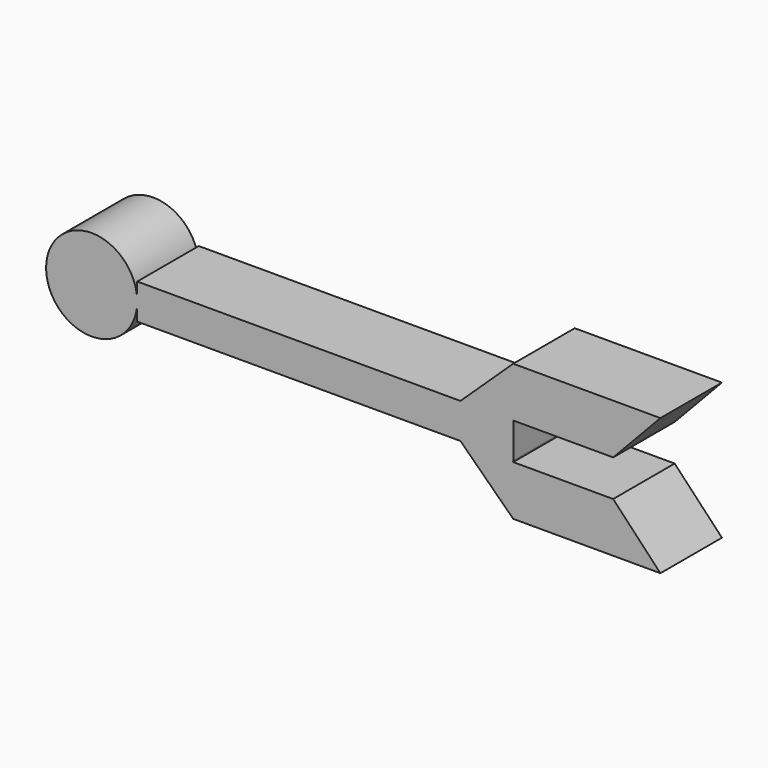
from build123d import *

# Parameters (mm, degrees)
F0_W     = 8.5292397036
F0_H     = 5.8270652971
F0_W_2   = 16.51
F0_H_2   = 8.255
F0_W_3   = 0.0115435171
F0_H_3   = 0.0098554845
F1_DEPTH = 12.7


with BuildPart() as f1:
    # F0 (on Front) → F1 (new body)
    with BuildSketch(Plane.XZ):
        with BuildLine():
            ThreePointArc((-30.9562882377, -0.2427943825), (-30.9533520359, -0.1214129725), (-30.9523732171, 0))
            ThreePointArc((-30.9523732171, 0), (-30.9533520359, 0.1214129725), (-30.9562882377, 0.2427943825))
            Line((-30.9562882377, 0.2427943825), (-30.9562882377, -0.2427943825))
        make_face()
        with BuildLine():
            ThreePointArc((-30.9562882377, 0.2427943825), (-30.9533520359, 0.1214129725), (-30.9523732171, 0))
            ThreePointArc((-30.9523732171, 0), (-30.9533520359, -0.1214129725), (-30.9562882377, -0.2427943825))
            Line((-30.9562882377, -0.2427943825), (-30.9562882377, -2.9135326485))
            Line((-30.9562882377, -2.9135326485), (22.4270485342, -2.9135326485))
            Line((22.4270485342, -2.9135326485), (22.4270485342, 2.9135326485))
            Line((22.4270485342, 2.9135326485), (-30.9562882377, 2.9135326485))
            Line((-30.9562882377, 2.9135326485), (-30.9562882377, 0.2427943825))
        make_face()
        with BuildLine():
            Line((-30.9562882377, -0.2427943825), (-30.9562882377, 0.2427943825))
            ThreePointArc((-30.9562882377, 0.2427943825), (-46.0134532551, 0), (-30.9562882377, -0.2427943825))
        make_face()
        Polygon((31.1438676369, 11.1586864903), (22.4270485342, 2.9135326485), (30.9562882377, 2.9135326485), (31.1438676369, 2.9135326485), align=None)
        with Locations((26.691668386, 0)):
            Rectangle(F0_W, F0_H)
        Polygon((30.9562882377, -2.9135326485), (22.4270485342, -2.9135326485), (31.1438676369, -11.4011367583), (31.1438676369, -3.1461367583), (31.155411154, -2.9135326485), align=None)
        Polygon((31.1438676369, 2.9135326485), (30.9562882377, 2.9135326485), (30.9562882377, -2.9135326485), (31.155411154, -2.9135326485), (31.155411154, 2.903677164), (31.1438676369, 2.903677164), align=None)
        Polygon((47.6538676369, 11.1586864903), (31.1438676369, 11.1586864903), (31.1438676369, 2.9135326485), (31.155411154, 2.9135326485), (31.155411154, 2.903677164), (47.6538676369, 2.903677164), align=None)
        with Locations((39.3988676369, -7.2736367583)):
            Rectangle(F0_W_2, F0_H_2)
        with Locations((31.1496393955, 2.9086049063)):
            Rectangle(F0_W_3, F0_H_3)
        Polygon((55.4567277431, 11.1586864903), (47.6538676369, 11.1586864903), (47.6538676369, 2.903677164), align=None)
        Polygon((47.6538676369, -3.1461367583), (47.6538676369, -11.4011367583), (55.4567277431, -11.4011367583), align=None)
    extrude(amount=F1_DEPTH)


solid = f1.part
